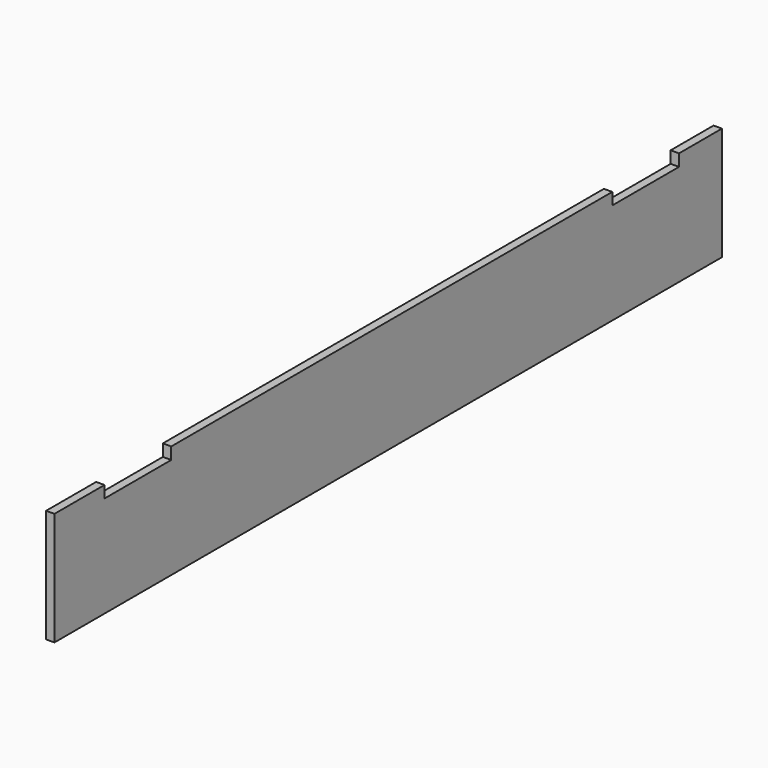
from build123d import *

# Parameters (mm, degrees)
F0_W     = 17.78
F0_H     = 241.3
F1_DEPTH = 1778
F2_W     = 177.8
F2_H     = 25.4
F3_DEPTH = 17.781


with BuildPart() as f1:
    # F0 (on Front) → F1 (new body)
    with BuildSketch(Plane.XZ):
        with Locations((8.89, 120.65)):
            Rectangle(F0_W, F0_H)
    extrude(amount=F1_DEPTH)

    # F2 (on face) → F3 (cut, through all)
    with BuildSketch(Plane.YZ.offset(17.78)):
        with Locations((-203.2, 228.6)):
            Rectangle(F2_W, F2_H)
        with Locations((-1555.75, 228.6)):
            Rectangle(F2_W, F2_H)
    extrude(amount=-F3_DEPTH, mode=Mode.SUBTRACT)


solid = f1.part
